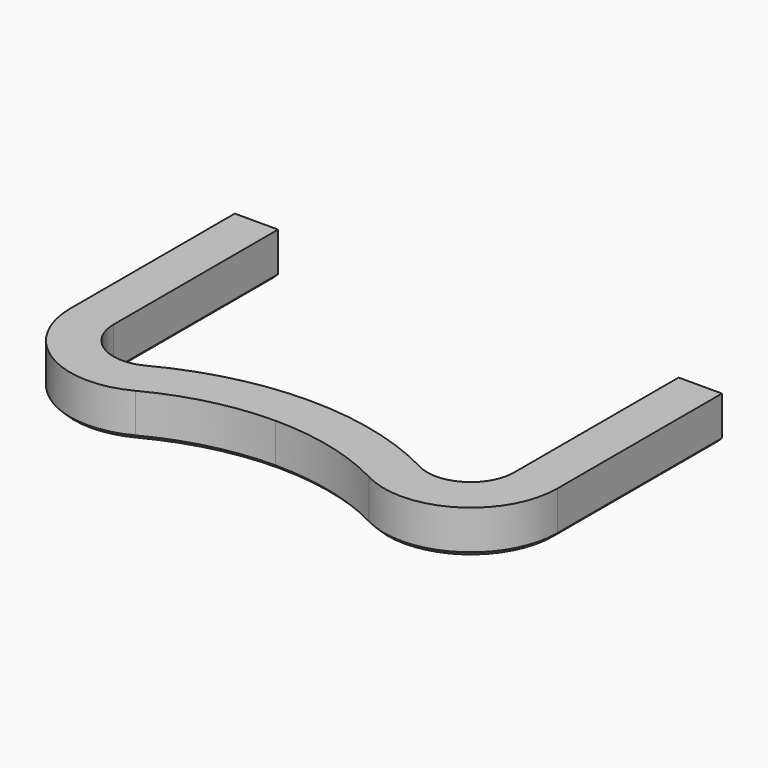
from build123d import *

# Parameters (mm, degrees)
F1_DEPTH = 16
F3_D     = 3.8
F3_DEPTH = 20
F3_TIP   = 1.1416351762
F4_SIZE  = 1.5


with BuildPart() as f1:
    # F0 (on Top) → F1 (new body)
    with BuildSketch(Plane.XY):
        with BuildLine():
            Line((-74, -14.8000685584), (-74, 61.1999314416))
            Line((-74, 61.1999314416), (-90, 61.1999314416))
            Line((-90, 61.1999314416), (-90, -14.8000685584))
            ThreePointArc((-90, -14.8000685584), (-74.5730833817, -42.1740143321), (-43.1666932985, -43.1544864205))
            ThreePointArc((-43.1666932985, -43.1544864205), (-22.2256381935, -35.236562411), (0, -32.5454071904))
            ThreePointArc((0, -32.5454071904), (22.2256381935, -35.236562411), (43.1666932985, -43.1544864205))
            ThreePointArc((43.1666932985, -43.1544864205), (74.5730833817, -42.1740143321), (90, -14.8000685584))
            Line((90, -14.8000685584), (90, 61.1999314416))
            Line((90, 61.1999314416), (74, 61.1999314416))
            Line((74, 61.1999314416), (74, -14.8000685584))
            ThreePointArc((74, -14.8000685584), (66.2865416908, -28.4870414452), (50.5833466493, -28.9772774894))
            ThreePointArc((50.5833466493, -28.9772774894), (26.0443197136, -19.6989412466), (0, -16.5454071904))
            ThreePointArc((0, -16.5454071904), (-26.0443197136, -19.6989412466), (-50.5833466493, -28.9772774894))
            ThreePointArc((-50.5833466493, -28.9772774894), (-66.2865416908, -28.4870414452), (-74, -14.8000685584))
        make_face()
    extrude(amount=F1_DEPTH)

    # F3
    with Locations(Plane(origin=(0, 61.1999314416, 0), x_dir=(-1, 0, 0), z_dir=(0, 1, 0))):
        with Locations((82, 8), (-82, 8)):
            Hole(F3_D / 2, depth=F3_DEPTH)
            with Locations((0, 0, -(F3_DEPTH + F3_TIP / 2))):  # 118° drill point
                Cone(0, F3_D / 2, F3_TIP, mode=Mode.SUBTRACT)

    # F4
    f4_edges = [f1.edges().sort_by_distance(p)[0] for p in [
        (74.573083, -42.174014, 0),
        (66.286542, -28.487041, 0),
    ]]
    chamfer(f4_edges, length=F4_SIZE)


solid = f1.part
